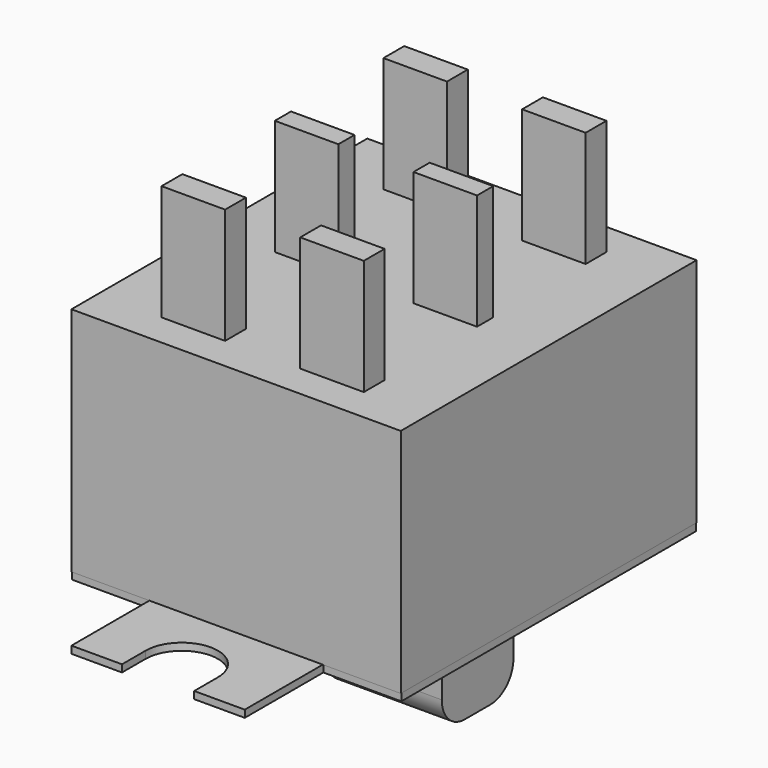
from build123d import *

# Parameters (mm, degrees)
SKETCH_W        = 11.4
SKETCH_H        = 12.8
PAD_DEPTH       = 8
SKETCH001_W     = 11.4
SKETCH001_H     = 19.55
PAD001_DEPTH    = 0.25
SKETCH002_W     = 4
SKETCH002_H     = 6.2
POCKET_DEPTH    = 5
SKETCH003_W     = 10
SKETCH003_H     = 10
POCKET001_DEPTH = 5
POCKET002_DEPTH = 0.251
SKETCH005_W     = 7
SKETCH005_H     = 10.5
PAD002_DEPTH    = 5
SKETCH007_W     = 12
SKETCH007_H     = 4
POCKET003_DEPTH = 4.25
SKETCH008_W     = 2.6
SKETCH008_H     = 20
POCKET004_DEPTH = 4.25
SKETCH009_W     = 4
SKETCH009_H     = 6.2
PAD003_DEPTH    = 5
SKETCH011_W     = 10
SKETCH011_H     = 10
POCKET005_DEPTH = 4.75
FILLET_R        = 1


with BuildPart() as mainbody:
    # Sketch → Pad (new body)
    with BuildSketch(Plane.XY):
        Rectangle(SKETCH_W, SKETCH_H)
    extrude(amount=PAD_DEPTH)


with BuildPart() as frontplate:
    # Sketch001 → Pad001 (new body)
    with BuildSketch(Plane.XY):
        Rectangle(SKETCH001_W, SKETCH001_H)
    extrude(amount=-PAD001_DEPTH)

    # Sketch002 → Pocket (cut)
    with BuildSketch(Plane.XY):
        Rectangle(SKETCH002_W, SKETCH002_H)
    extrude(amount=-POCKET_DEPTH, mode=Mode.SUBTRACT)

    # Sketch003 → Pocket001 (cut)
    with BuildSketch(Plane.XY):
        with Locations((-8, -11.375)):
            Rectangle(SKETCH003_W, SKETCH003_H)
        with Locations((8, -11.375)):
            Rectangle(SKETCH003_W, SKETCH003_H)
        with Locations((8, 11.375)):
            Rectangle(SKETCH003_W, SKETCH003_H)
        with Locations((-8, 11.375)):
            Rectangle(SKETCH003_W, SKETCH003_H)
    extrude(amount=-POCKET001_DEPTH, mode=Mode.SUBTRACT)

    # Sketch004 → Pocket002 (cut, through all)
    with BuildSketch(Plane.XY):
        with BuildLine():
            ThreePointArc((-1.25, 8.75), (0, 7.5), (1.25, 8.75))
            Line((1.25, 18.75), (1.25, 8.75))
            Line((-1.25, 18.75), (1.25, 18.75))
            Line((-1.25, 8.75), (-1.25, 18.75))
        make_face()
        with BuildLine():
            ThreePointArc((1.25, -8.75), (0, -7.5), (-1.25, -8.75))
            Line((-1.25, -8.75), (-1.25, -18.75))
            Line((-1.25, -18.75), (1.25, -18.75))
            Line((1.25, -18.75), (1.25, -8.75))
        make_face()
    extrude(amount=-POCKET002_DEPTH, mode=Mode.SUBTRACT)


with BuildPart() as connectors:
    # Sketch005 (on DatumPlane) → Pad002 (new body)
    with BuildSketch(Plane.XY.offset(7)):
        Rectangle(SKETCH005_W, SKETCH005_H)
    extrude(amount=PAD002_DEPTH)

    # Sketch007 (on Face6 of Pad002) → Pocket003 (cut, symmetric)
    with BuildSketch(Plane.XY.offset(12)):
        with Locations((0, 2.35)):
            Rectangle(SKETCH007_W, SKETCH007_H)
        with Locations((0, -2.35)):
            Rectangle(SKETCH007_W, SKETCH007_H)
    extrude(amount=POCKET003_DEPTH, both=True, mode=Mode.SUBTRACT)

    # Sketch008 (on Face5 of Pocket003) → Pocket004 (cut, symmetric)
    with BuildSketch(Plane.XY.offset(12)):
        Rectangle(SKETCH008_W, SKETCH008_H)
    extrude(amount=POCKET004_DEPTH, both=True, mode=Mode.SUBTRACT)


with BuildPart() as switch:
    # Sketch009 → Pad003 (new body)
    with BuildSketch(Plane.XY):
        Rectangle(SKETCH009_W, SKETCH009_H)
    extrude(amount=-PAD003_DEPTH)

    # Sketch011 (on Face6 of Pad003) → Pocket005 (cut)
    with BuildSketch(Plane(origin=(0, 0, -5), x_dir=(1, 0, 0), z_dir=(0, 0, -1))):
        with Locations((0, 5)):
            Rectangle(SKETCH011_W, SKETCH011_H)
    extrude(amount=-POCKET005_DEPTH, mode=Mode.SUBTRACT)

    # Fillet
    fillet_edges = [switch.edges().sort_by_distance(p)[0] for p in [
        (0, 0, -5),
        (0, 3.1, -5),
    ]]
    fillet(fillet_edges, radius=FILLET_R)


solid = Compound([mainbody.part, frontplate.part, connectors.part, switch.part])
